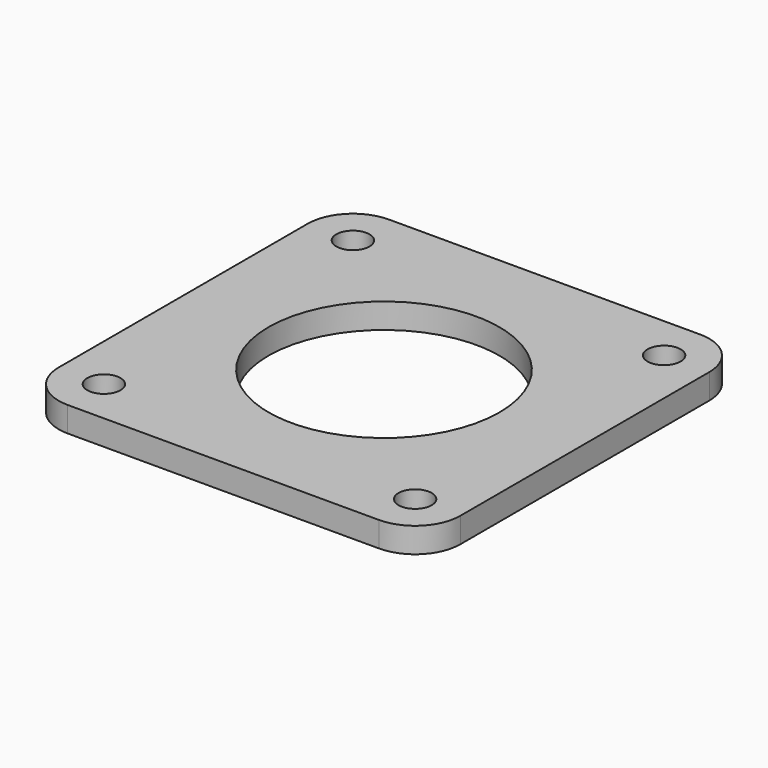
from build123d import *

# Parameters (mm, degrees)
SKETCH_W   = 40
SKETCH_H   = 40
SKETCH_R   = 1.65
SKETCH_R_2 = 11.5
PAD_DEPTH  = 2.5
FILLET_R   = 4.5


with BuildPart() as part:
    # Sketch → Pad (new body)
    with BuildSketch(Plane.XY):
        Rectangle(SKETCH_W, SKETCH_H)
        with Locations((-15.5, 15.5)):
            Circle(SKETCH_R, mode=Mode.SUBTRACT)
        with Locations((15.5, 15.5)):
            Circle(SKETCH_R, mode=Mode.SUBTRACT)
        with Locations((15.5, -15.5)):
            Circle(SKETCH_R, mode=Mode.SUBTRACT)
        with Locations((-15.5, -15.5)):
            Circle(SKETCH_R, mode=Mode.SUBTRACT)
        Circle(SKETCH_R_2, mode=Mode.SUBTRACT)
    extrude(amount=PAD_DEPTH)

    # Fillet
    fillet_edges = [part.edges().sort_by_distance(p)[0] for p in [
        (-20, -20, 1.25),
        (-20, 20, 1.25),
        (20, 20, 1.25),
        (20, -20, 1.25),
    ]]
    fillet(fillet_edges, radius=FILLET_R)


solid = part.part
